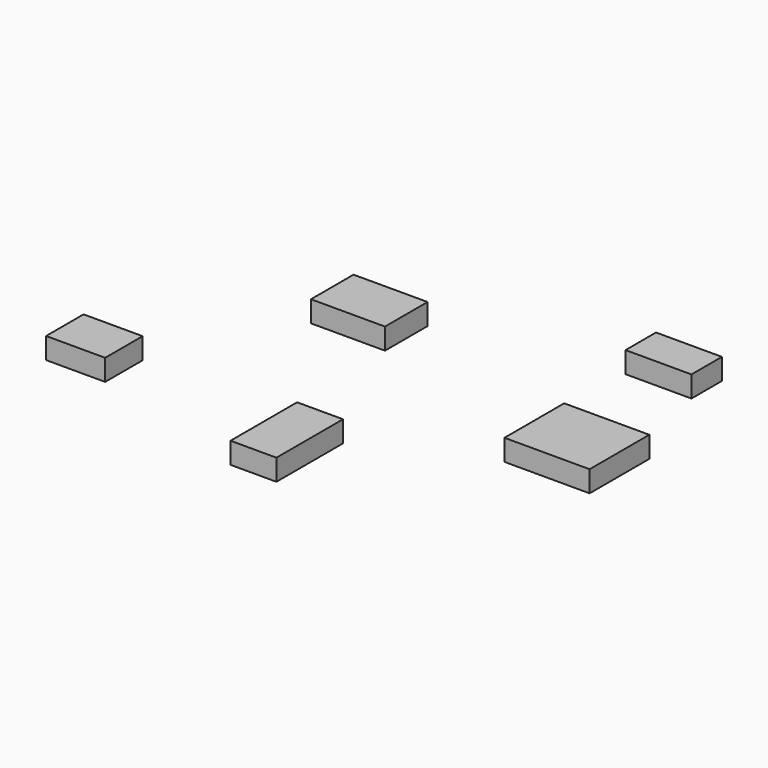
from build123d import *

# Parameters (mm, degrees)
F0_W     = 87.104678
F0_H     = 62.628981
F0_W_2   = 69.524437
F0_H_2   = 55.110275
F0_W_3   = 54.036006
F0_H_3   = 97.934156
F0_W_4   = 100.193695
F0_H_4   = 87.830506
F0_W_5   = 77.565655
F0_H_5   = 44.815383
F1_DEPTH = 25


with BuildPart() as f1:
    # F0 (on Top) → F1 (new body)
    with BuildSketch(Plane.XY):
        with Locations((-106.721222, 47.6916)):
            Rectangle(F0_W, F0_H)
        with Locations((-259.880469, -165.204614)):
            Rectangle(F0_W_2, F0_H_2)
        with Locations((-5.07373, -200.687483)):
            Rectangle(F0_W_3, F0_H_3)
        with Locations((210.900419, -43.915253)):
            Rectangle(F0_W_4, F0_H_4)
        with Locations((177.440412, 140.341465)):
            Rectangle(F0_W_5, F0_H_5)
    extrude(amount=F1_DEPTH)


solid = f1.part
